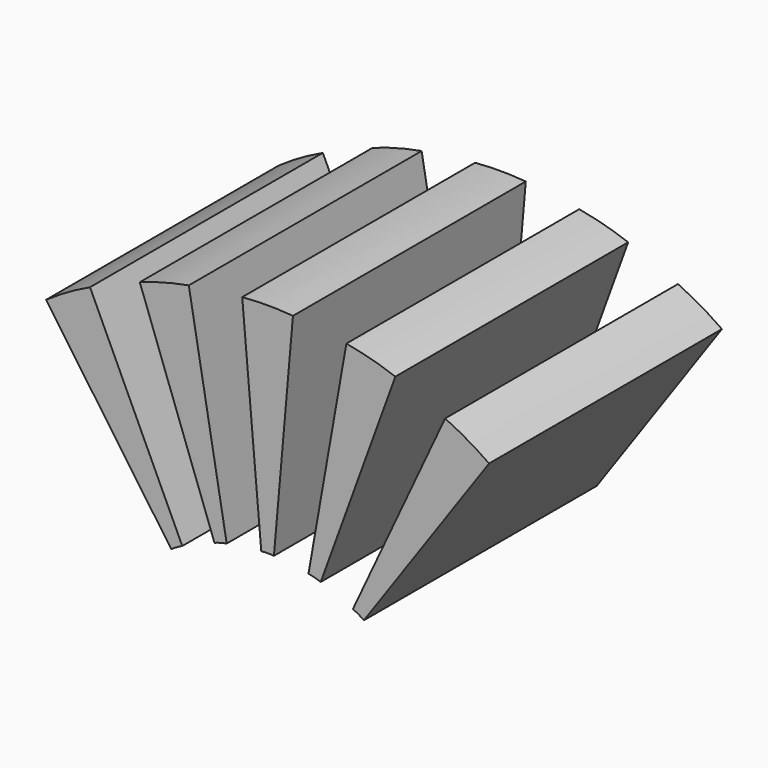
from build123d import *

# Parameters (mm, degrees)
BOX001027013_W               = 13
BOX001027013_H               = 10
BOX001027013_DEPTH           = 2
BOX001027013_PLACEMENT_ANGLE = 80
BOX001027012_W               = 2
BOX001027012_H               = 10
BOX001027012_DEPTH           = 13
CYLINDER075_R                = 2
CYLINDER075_DEPTH            = 13
CYLINDER075_ROLL_ANGLE       = 90
CYLINDER076_R                = 8
CYLINDER076_DEPTH            = 8
CYLINDER076_ROLL_ANGLE       = 90
COMMON021_PLACEMENT_ANGLE    = 25
COMMON020_PITCH_ANGLE        = -20
COMMON019_PITCH_ANGLE        = 10
COMMON022_PITCH_ANGLE        = -35
COMMON018_PITCH_ANGLE        = -5


with BuildPart() as cube033:
    # Box001027013 → Box001027013 (new body)
    with BuildSketch(Plane.XY):
        with Locations((6.5, 5)):
            Rectangle(BOX001027013_W, BOX001027013_H)
    extrude(amount=BOX001027013_DEPTH)


with BuildPart() as cube033_1:
    # Box001027013 placement: moved
    add(cube033.part.moved(Location((0, -5, 0))).rotate(Axis((0, -5, 0), (0, -1, 0)), BOX001027013_PLACEMENT_ANGLE))


with BuildPart() as common017:
    # Box001027012 → Box001027012 (new body)
    with BuildSketch(Plane(origin=(0, -5, 0), x_dir=(1, 0, 0), z_dir=(0, 0, 1))):
        with Locations((1, 5)):
            Rectangle(BOX001027012_W, BOX001027012_H)
    extrude(amount=BOX001027012_DEPTH)

    # Common017: intersect Cube033
    add(cube033_1.part, mode=Mode.INTERSECT)


with BuildPart() as cylinder075:
    # Cylinder075 → Cylinder075 (new body)
    with BuildSketch(Plane.XY):
        Circle(CYLINDER075_R)
    extrude(amount=CYLINDER075_DEPTH)


with BuildPart() as cylinder075_1:
    # Cylinder075 roll: moved
    add(cylinder075.part.rotate(Axis((0, 0, 0), (1, 0, 0)), CYLINDER075_ROLL_ANGLE))


with BuildPart() as cylinder075_2:
    # Cylinder075 placement: moved
    add(cylinder075_1.part.moved(Location((0, 7, 0))))


with BuildPart() as cut043:
    # Cylinder076 → Cylinder076 (new body)
    with BuildSketch(Plane.XY):
        Circle(CYLINDER076_R)
    extrude(amount=CYLINDER076_DEPTH)


with BuildPart() as cut043_1:
    # Cylinder076 roll: moved
    add(cut043.part.rotate(Axis((0, 0, 0), (1, 0, 0)), CYLINDER076_ROLL_ANGLE))


with BuildPart() as cut043_2:
    # Cylinder076 placement: moved
    add(cut043_1.part.moved(Location((0, 4, 0))))

    # Cut043: cut Cylinder075
    add(cylinder075_2.part, mode=Mode.SUBTRACT)


with BuildPart() as common021:
    # Common021 base: copy of Cut043
    add(cut043_2.part)

    # Common021: intersect Common017
    add(common017.part, mode=Mode.INTERSECT)


with BuildPart() as common021_1:
    # Common021 placement: moved
    add(common021.part.moved(Location((51.5, 0, 10.598076))).rotate(Axis((51.5, 0, 10.598076), (0, 1, 0)), COMMON021_PLACEMENT_ANGLE))


with BuildPart() as common020:
    # Common020 base: copy of Cut043
    add(cut043_2.part)

    # Common020: intersect Common017
    add(common017.part, mode=Mode.INTERSECT)


with BuildPart() as common020_1:
    # Common020 pitch: moved
    add(common020.part.rotate(Axis((0, 0, 0), (0, 1, 0)), COMMON020_PITCH_ANGLE))


with BuildPart() as common020_2:
    # Common020 placement: moved
    add(common020_1.part.moved(Location((49.223543, 0, 10.897777))))


with BuildPart() as common019:
    # Common019 base: copy of Cut043
    add(cut043_2.part)

    # Common019: intersect Common017
    add(common017.part, mode=Mode.INTERSECT)


with BuildPart() as common019_1:
    # Common019 pitch: moved
    add(common019.part.rotate(Axis((0, 0, 0), (0, 1, 0)), COMMON019_PITCH_ANGLE))


with BuildPart() as common019_2:
    # Common019 placement: moved
    add(common019_1.part.moved(Location((50.776457, 0, 10.897777))))


with BuildPart() as common022:
    # Common022 base: copy of Cut043
    add(cut043_2.part)

    # Common022: intersect Common017
    add(common017.part, mode=Mode.INTERSECT)


with BuildPart() as common022_1:
    # Common022 pitch: moved
    add(common022.part.rotate(Axis((0, 0, 0), (0, 1, 0)), COMMON022_PITCH_ANGLE))


with BuildPart() as common022_2:
    # Common022 placement: moved
    add(common022_1.part.moved(Location((48.5, 0, 10.598076))))


with BuildPart() as strength_slots004:
    # Common018 base: copy of Cut043
    add(cut043_2.part)

    # Common018: intersect Common017
    add(common017.part, mode=Mode.INTERSECT)


with BuildPart() as strength_slots004_1:
    # Common018 pitch: moved
    add(strength_slots004.part.rotate(Axis((0, 0, 0), (0, 1, 0)), COMMON018_PITCH_ANGLE))


with BuildPart() as strength_slots004_2:
    # Common018 placement: moved
    add(strength_slots004_1.part.moved(Location((50, 0, 11))))

    # Fusion085: union Common021, Common020, Common019, Common022
    add(common021_1.part)
    add(common020_2.part)
    add(common019_2.part)
    add(common022_2.part)


with BuildPart() as strength_slots004_3:
    # Fusion085 placement: moved
    add(strength_slots004_2.part.moved(Location((14, 0, -38))))


solid = strength_slots004_3.part
